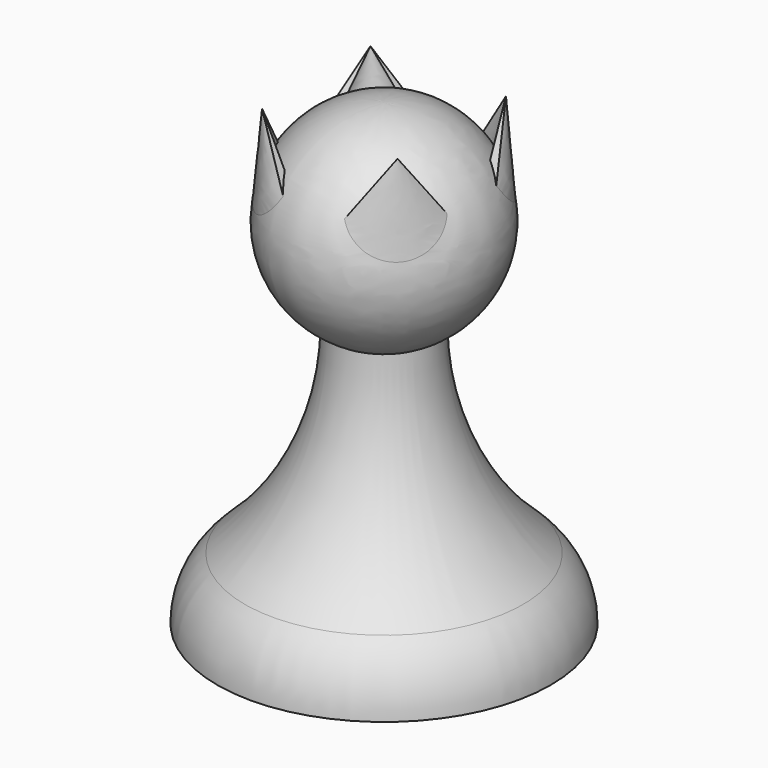
from build123d import *


with BuildPart() as f1:
    # F0 (on Front) → F1 (revolve)
    with BuildSketch(Plane.XZ):
        with BuildLine():
            Line((0, 15.24), (0, 27.94))
            ThreePointArc((0, 27.94), (-6.155362, 23.150133), (-3.024626, 16.006619))
            ThreePointArc((-3.024626, 16.006619), (-1.560133, 15.434638), (0, 15.24))
        make_face()
        with BuildLine():
            ThreePointArc((0, 15.24), (-1.560133, 15.434638), (-3.024626, 16.006619))
            ThreePointArc((-3.024626, 16.006619), (-4.449628, 9.310037), (-8.477709, 3.773845))
            ThreePointArc((-8.477709, 3.773845), (-9.720383, 2.065915), (-10.16, 0))
            Line((-10.16, 0), (0, 0))
            Line((0, 0), (0, 15.24))
        make_face()
    revolve(axis=Axis((0, 0, 13.97), (0, 0, -1)))

    # F3 (on offset) → F6 section 0
    with BuildSketch(Plane.XY.offset(21.59), mode=Mode.PRIVATE) as f6_s0:
        with BuildLine():
            ThreePointArc((-6.35, 0), (-4.490128, -4.490128), (0, -6.35))
            Line((0, -6.35), (0, -5.08))
            ThreePointArc((0, -5.08), (-3.592102, -3.592102), (-5.08, 0))
            Line((-5.08, 0), (-6.35, 0))
        make_face()
    loft([f6_s0.sketch, Vertex(-4.1275, -4.1275, 27.94)])

    # F3 (on offset) → F7 section 0
    with BuildSketch(Plane.XY.offset(21.59), mode=Mode.PRIVATE) as f7_s0:
        with BuildLine():
            Line((0, 5.08), (0, 6.35))
            ThreePointArc((0, 6.35), (-4.490128, 4.490128), (-6.35, 0))
            Line((-6.35, 0), (-5.08, 0))
            ThreePointArc((-5.08, 0), (-3.592102, 3.592102), (0, 5.08))
        make_face()
    loft([f7_s0.sketch, Vertex(-4.1275, 4.1275, 27.94)])

    # F3 (on offset) → F8 section 0
    with BuildSketch(Plane.XY.offset(21.59), mode=Mode.PRIVATE) as f8_s0:
        with BuildLine():
            Line((5.08, 0), (6.35, 0))
            ThreePointArc((6.35, 0), (4.490128, 4.490128), (0, 6.35))
            Line((0, 6.35), (0, 5.08))
            ThreePointArc((0, 5.08), (3.592102, 3.592102), (5.08, 0))
        make_face()
    loft([f8_s0.sketch, Vertex(4.1275, 4.1275, 27.94)])

    # F3 (on offset) → F9 section 0
    with BuildSketch(Plane.XY.offset(21.59), mode=Mode.PRIVATE) as f9_s0:
        with BuildLine():
            ThreePointArc((0, -6.35), (4.490128, -4.490128), (6.35, 0))
            Line((6.35, 0), (5.08, 0))
            ThreePointArc((5.08, 0), (3.592102, -3.592102), (0, -5.08))
            Line((0, -5.08), (0, -6.35))
        make_face()
    loft([f9_s0.sketch, Vertex(4.1275, -4.1275, 27.94)])


solid = f1.part
